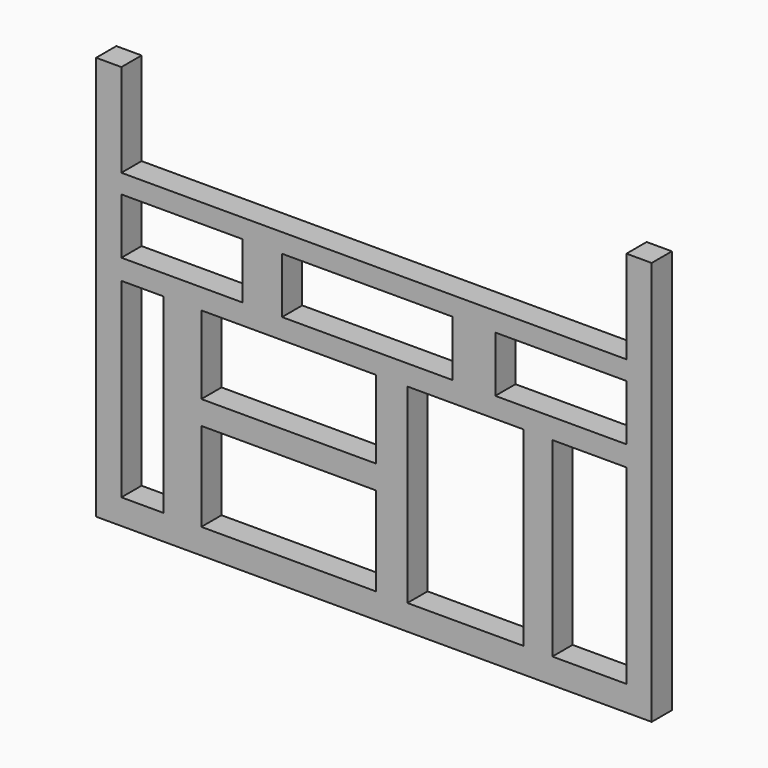
from build123d import *

# Parameters (mm, degrees)
F1_DEPTH = 60
F2_W     = 5.0666704774
F2_H     = 6.6256467253
F2_H_2   = 1.0133311152
F2_W_2   = 4.6769259498
F2_H_3   = 1.2471787632
F2_H_4   = 1.4030765742
F2_W_3   = 3.4297443926
F2_H_5   = 23.8523234148
F2_H_6   = 0.8574351668
F2_W_4   = 4.5210286044
F2_H_7   = 1.0133348405
F2_W_5   = 3.7415400147
F2_W_6   = 20.7343716174
F2_H_8   = 2.8061550111
F2_W_7   = 1.1692317203
F2_W_8   = 1.4030784369
F3_DEPTH = 3
F4_W     = 106.1131954193
F4_H     = 74.4311399758
F5_DEPTH = 57


with BuildPart() as f1:
    # F0 (on Front) → F1 (new body)
    with BuildSketch(Plane.XZ):
        Polygon((60, 0), (0, 0), (0, 45), (-3, 45), (-3, -3), (63, -3), (63, 45), (60, 45), align=None)
    extrude(amount=F1_DEPTH)

    # F2 (on Front) → F3 (join)
    with BuildSketch(Plane.XZ):
        Polygon((60.8672574162, 31.6860154271), (60.8672574162, 33.9465290308), (-0.9461171576, 33.9465290308), (-0.9461171576, 31.6860154271), (14.4097907469, 31.6860154271), (14.4097907469, 32.9331941903), (19.0867166966, 32.9331941903), (19.0867166966, 31.6860154271), (39.3533967435, 31.6860154271), (39.3533967435, 32.6993465424), (44.4200672209, 32.6993465424), (44.4200672209, 31.6860154271), align=None)
        with Locations((41.8867319822, 28.3731920645)):
            Rectangle(F2_W, F2_H)
        with Locations((41.8867319822, 32.1926809847)):
            Rectangle(F2_W, F2_H_2)
        with Locations((16.7482537217, 32.3096048087)):
            Rectangle(F2_W_2, F2_H_3)
        with Locations((16.7482537217, 28.3731920645)):
            Rectangle(F2_W_2, F2_H)
        with Locations((41.8867319822, 24.3588304147)):
            Rectangle(F2_W, F2_H_4)
        Polygon((62.0364882052, 25.0603687018), (44.4200672209, 25.0603687018), (44.4200672209, 23.6572921276), (39.3533967435, 23.6572921276), (39.3533967435, 25.0603687018), (19.0867166966, 25.0603687018), (19.0867166966, 23.6572921276), (14.4097907469, 23.6572921276), (14.4097907469, 25.0603687018), (-2.1932963282, 25.0603687018), (-2.1932963282, 22.6439572871), (4.9779904075, 22.6439572871), (4.9779904075, 23.6572921276), (9.4990190119, 23.6572921276), (9.4990190119, 22.6439572871), (30.2333906293, 22.6439572871), (30.2333906293, 23.5013924539), (33.974930644, 23.5013924539), (33.974930644, 22.6439572871), (47.7718636394, 22.6439572871), (47.7718636394, 23.5013924539), (51.201608032, 23.5013924539), (51.201608032, 22.6439572871), (62.0364882052, 22.6439572871), align=None)
        with Locations((16.7482537217, 24.3588304147)):
            Rectangle(F2_W_2, F2_H_4)
        with Locations((49.4867358357, 10.7177955797)):
            Rectangle(F2_W_3, F2_H_5)
        with Locations((49.4867358357, 23.0726748705)):
            Rectangle(F2_W_3, F2_H_6)
        with Locations((7.2385047097, 23.1506247073)):
            Rectangle(F2_W_4, F2_H_7)
        Polygon((9.4990190119, 22.6439572871), (4.9779904075, 22.6439572871), (4.9779904075, -1.2083661277), (9.4990190119, -1.2083661277), (9.4990190119, 10.5618983507), (8.3297872916, 10.5618983507), (8.3297872916, 13.3680533618), (9.4990190119, 13.3680533618), align=None)
        Polygon((33.974930644, -1.2083661277), (33.974930644, 22.6439572871), (30.2333906293, 22.6439572871), (30.2333906293, 13.3680533618), (31.6364690661, 13.3680533618), (31.6364690661, 10.5618983507), (30.2333906293, 10.5618983507), (30.2333906293, -1.2083661277), align=None)
        with Locations((32.1041606367, 23.0726748705)):
            Rectangle(F2_W_5, F2_H_6)
        with Locations((19.8662048206, 11.9649758562)):
            Rectangle(F2_W_6, F2_H_8)
        with Locations((8.9144031517, 11.9649758562)):
            Rectangle(F2_W_7, F2_H_8)
        with Locations((30.9349298477, 11.9649758562)):
            Rectangle(F2_W_8, F2_H_8)
    extrude(amount=F3_DEPTH)

    # F4 (on face) → F5 (cut, through all)
    with BuildSketch(Plane.XZ.offset(60)):
        with Locations((33.7975099683, 20.7829978317)):
            Rectangle(F4_W, F4_H)
    extrude(amount=-F5_DEPTH, mode=Mode.SUBTRACT)


solid = f1.part
